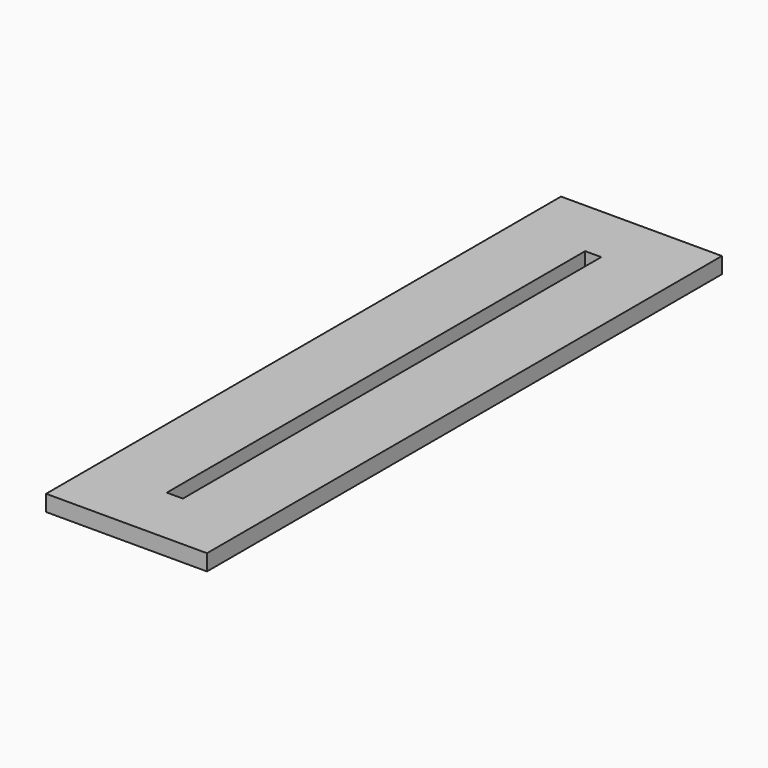
from build123d import *

# Parameters (mm, degrees)
RECTANGLE027_W   = 20
RECTANGLE027_H   = 650
EXTRUDE063_DEPTH = 20
RECTANGLE026_W   = 200
RECTANGLE026_H   = 800
EXTRUDE062_DEPTH = 20


with BuildPart() as extrude063:
    # Rectangle027 → Extrude063 (new body)
    with BuildSketch(Plane(origin=(289.620605, 275.315636, 420), x_dir=(1, 0, 0), z_dir=(0, 0, 1))):
        with Locations((10, 325)):
            Rectangle(RECTANGLE027_W, RECTANGLE027_H)
    extrude(amount=-EXTRUDE063_DEPTH)


with BuildPart() as extrude063_1:
    # Extrude063 placement: moved
    add(extrude063.part.moved(Location((-149.620605, -150.315636, -100))))


with BuildPart() as cut015:
    # Rectangle026 → Extrude062 (new body)
    with BuildSketch(Plane(origin=(207.600586, 206.495789, 400), x_dir=(1, 0, 0), z_dir=(0, 0, 1))):
        with Locations((100, 400)):
            Rectangle(RECTANGLE026_W, RECTANGLE026_H)
    extrude(amount=EXTRUDE062_DEPTH)


with BuildPart() as cut015_1:
    # Extrude062 placement: moved
    add(cut015.part.moved(Location((-157.600586, -156.495789, -100))))

    # Cut015: cut Extrude063
    add(extrude063_1.part, mode=Mode.SUBTRACT)


solid = cut015_1.part
